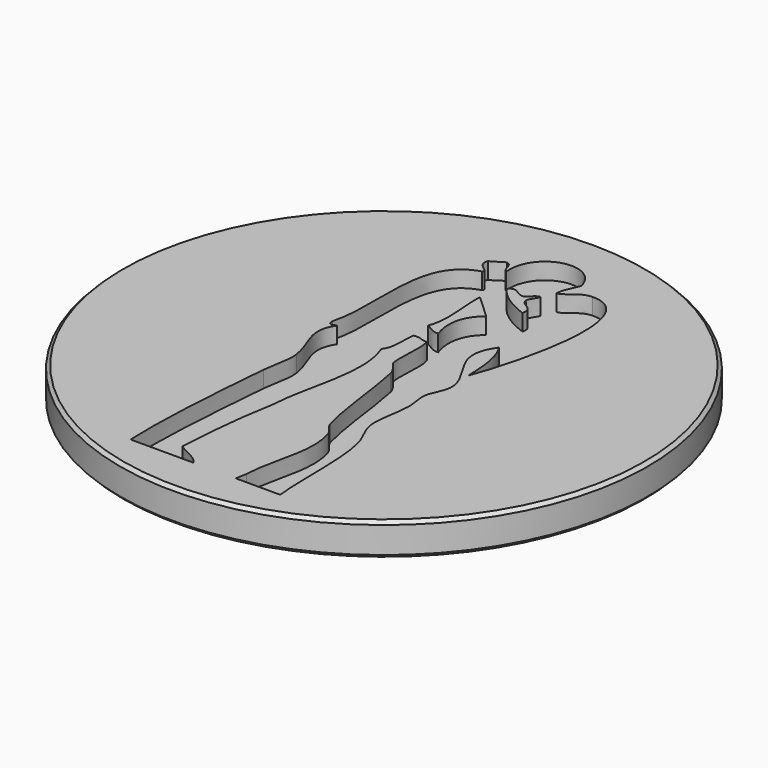
from build123d import *

# Parameters (mm, degrees)
POCKET_DEPTH = 1.25


with BuildPart() as part:
    # Sketch (on DatumPlane) → Revolution (revolve)
    with BuildSketch(Plane.YZ):
        Polygon((0, 0), (0, -2.5), (19.75, -2.5), (20, -2.25), (20, -0.25), (19.75, 0), align=None)
    revolve(axis=Axis((0, 0, 0), (0, 0, 1)))

    # Sketch005 (on DatumPlane) → Pocket (cut)
    with BuildSketch(Plane.XY):
        with BuildLine():
            add(Edge.make_bspline(
                [(2.212734, -16.79531), (2.353913, -15.955428)],
                knots=[0, 0, 11.60658, 11.60658], degree=1))
            add(Edge.make_bspline(
                [(2.353913, -15.955428), (2.452386, -13.484431), (3.666422, -11.326317), (2.913712, -8.958563)],
                knots=[0, 0, 0, 0, 1, 1, 1, 1], degree=3))
            add(Edge.make_bspline(
                [(2.913712, -8.958563), (2.776863, -8.528936), (2.33689, -8.25553), (2.213762, -7.839185)],
                knots=[0, 0, 0, 0, 1, 1, 1, 1], degree=3))
            add(Edge.make_bspline(
                [(2.213762, -7.839185), (1.63261, -5.878384), (1.420254, -2.638828), (0.954306, -0.562751)],
                knots=[0, 0, 0, 0, 1, 1, 1, 1], degree=3))
            add(Edge.make_bspline(
                [(0.954306, -0.562751), (0.837488, -0.042136), (0.287742, 0.418016), (0.254795, 0.556627)],
                knots=[0, 0, 0, 0, 1, 1, 1, 1], degree=3))
            add(Edge.make_bspline(
                [(0.254795, 0.556627), (0.035836, 1.475243), (0.405146, 2.931279), (0.114644, 3.915201)],
                knots=[0, 0, 0, 0, 1, 1, 1, 1], degree=3))
            add(Edge.make_bspline(
                [(0.114644, 3.915201), (-0.335749, 3.884236), (-0.477001, 4.162705), (-1.004588, 4.055279)],
                knots=[0, 0, 0, 0, 1, 1, 1, 1], degree=3))
            add(Edge.make_bspline(
                [(-1.004588, 4.055279), (-1.121992, 3.360832), (-0.906555, 2.162059), (-1.424455, 1.536367)],
                knots=[0, 0, 0, 0, 1, 1, 1, 1], degree=3))
            add(Edge.make_bspline(
                [(-1.424455, 1.536367), (-0.190168, -1.482321), (-1.911464, -5.34911), (-1.969652, -7.903684)],
                knots=[0, 0, 0, 0, 1, 1, 1, 1], degree=3))
            add(Edge.make_bspline(
                [(-1.969652, -7.903684), (-2.432446, -10.377469), (-2.703357, -13.113506), (-2.823623, -15.53644)],
                knots=[0, 0, 0, 0, 1, 1, 1, 1], degree=3))
            add(Edge.make_bspline(
                [(-2.823623, -15.53644), (-2.274023, -16.012809), (-1.385932, -16.150099), (-1.004588, -16.795897)],
                knots=[0, 0, 0, 0, 1, 1, 1, 1], degree=3))
            add(Edge.make_bspline(
                [(-1.004588, -16.795897), (-5.762036, -16.795897)],
                knots=[0, 0, 64.835, 64.835], degree=1))
            add(Edge.make_bspline(
                [(-5.762036, -16.795897), (-5.908571, -13.463225), (-5.538601, -8.73975), (-5.202677, -4.901359)],
                knots=[0, 0, 0, 0, 1, 1, 1, 1], degree=3))
            add(Edge.make_bspline(
                [(-5.202677, -4.901359), (-5.116898, -3.924994), (-4.784204, -3.058916), (-4.922814, -2.102804)],
                knots=[0, 0, 0, 0, 1, 1, 1, 1], degree=3))
            add(Edge.make_bspline(
                [(-4.922814, -2.102804), (-5.15799, -0.475138), (-6.392498, 0.658255), (-5.342242, 2.235731)],
                knots=[0, 0, 0, 0, 1, 1, 1, 1], degree=3))
            add(Edge.make_bspline(
                [(-5.342242, 2.235731), (-5.698637, 2.163087), (-5.885237, 1.997106), (-5.902261, 2.515373)],
                knots=[0, 0, 0, 0, 1, 1, 1, 1], degree=3))
            add(Edge.make_bspline(
                [(-5.902261, 2.515373), (-4.959136, 5.955324), (-6.879579, 11.869573), (-2.963554, 13.011331)],
                knots=[0, 0, 0, 0, 1, 1, 1, 1], degree=3))
            add(Edge.make_bspline(
                [(-2.963554, 13.011331), (-2.683178, 13.346374), (-3.817451, 13.457541), (-3.523427, 14.270347)],
                knots=[0, 0, 0, 0, 1, 1, 1, 1], degree=3))
            add(Edge.make_bspline(
                [(-3.523427, 14.270347), (-3.140321, 14.400739), (-2.926572, 14.699607), (-2.543613, 14.830292)],
                knots=[0, 0, 0, 0, 1, 1, 1, 1], degree=3))
            add(Edge.make_bspline(
                [(-2.543613, 14.830292), (-2.053816, 14.76051), (-2.204608, 14.0497), (-1.844029, 13.850773)],
                knots=[0, 0, 0, 0, 1, 1, 1, 1], degree=3))
            add(Edge.make_bspline(
                [(-1.844029, 13.850773), (-2.144071, 17.003889), (1.974624, 18.085918), (2.773854, 15.250087)],
                knots=[0, 0, 0, 0, 1, 1, 1, 1], degree=3))
            add(Edge.make_bspline(
                [(2.773854, 15.250087), (2.592685, 14.684491), (2.246708, 14.284215), (2.213762, 13.570469)],
                knots=[0, 0, 0, 0, 1, 1, 1, 1], degree=3))
            add(Edge.make_bspline(
                [(2.213762, 13.570469), (2.792786, 13.662925), (3.280014, 14.548962), (4.172728, 14.550283)],
                knots=[0, 0, 0, 0, 1, 1, 1, 1], degree=3))
            add(Edge.make_bspline(
                [(4.172728, 14.550283), (8.655083, 14.556593), (5.532639, 4.064598), (4.732674, 2.096606)],
                knots=[0, 0, 0, 0, 1, 1, 1, 1], degree=3))
            add(Edge.make_bspline(
                [(4.732674, 2.096606), (4.690702, 3.640108), (4.551504, 5.086751), (3.893159, 6.014246)],
                knots=[0, 0, 0, 0, 1, 1, 1, 1], degree=3))
            add(Edge.make_bspline(
                [(3.893159, 6.014246), (2.13422, 3.558659), (4.761805, 2.306173), (4.872605, 0.416989)],
                knots=[0, 0, 0, 0, 1, 1, 1, 1], degree=3))
            add(Edge.make_bspline(
                [(4.872605, 0.416989), (4.917146, -0.345406), (4.402694, -0.841587), (4.312953, -1.541977)],
                knots=[0, 0, 0, 0, 1, 1, 1, 1], degree=3))
            add(Edge.make_bspline(
                [(4.312953, -1.541977), (4.255498, -1.990169), (4.464992, -2.698558), (4.452811, -3.221668)],
                knots=[0, 0, 0, 0, 1, 1, 1, 1], degree=3))
            add(Edge.make_bspline(
                [(4.452811, -3.221668), (4.426028, -4.37979), (4.053783, -5.518319), (4.172802, -6.43943)],
                knots=[0, 0, 0, 0, 1, 1, 1, 1], degree=3))
            add(Edge.make_bspline(
                [(4.172802, -6.43943), (4.27487, -7.226994), (4.812289, -7.936631), (5.012317, -8.678994)],
                knots=[0, 0, 0, 0, 1, 1, 1, 1], degree=3))
            add(Edge.make_bspline(
                [(5.012317, -8.678994), (5.596477, -10.840703), (5.304801, -14.451403), (5.572409, -16.79531)],
                knots=[0, 0, 0, 0, 1, 1, 1, 1], degree=3))
            add(Edge.make_bspline(
                [(5.572409, -16.79531), (3.386852, -16.79531)],
                knots=[0, 0, 29.785, 29.785], degree=1))
            add(Edge.make_bspline(
                [(3.386852, -16.79531), (2.213542, -16.79531)],
                knots=[0, 0, 15.99, 15.99], degree=1))
            add(Edge.make_bspline(
                [(2.213542, -16.79531), (2.212734, -16.79531)],
                knots=[0, 0, 0.011, 0.011], degree=1))
        make_face()
        with BuildLine():
            add(Edge.make_bspline(
                [(0.814888, 12.031884), (0.306967, 12.149582), (-0.027122, 12.722883), (-0.444202, 12.172109)],
                knots=[0, 0, 0, 0, 1, 1, 1, 1], degree=3))
            add(Edge.make_bspline(
                [(-0.444202, 12.172109), (0.181271, 11.305297), (1.124615, 10.755404), (2.214129, 10.353001)],
                knots=[0, 0, 0, 0, 1, 1, 1, 1], degree=3))
            add(Edge.make_bspline(
                [(2.214129, 10.353001), (2.41379, 11.298327), (1.4408, 11.072396), (1.374613, 11.751948)],
                knots=[0, 0, 0, 0, 1, 1, 1, 1], degree=3))
            add(Edge.make_bspline(
                [(1.374613, 11.751948), (1.375934, 12.042671), (2.048515, 12.797141), (1.654256, 12.591903)],
                knots=[0, 0, 0, 0, 1, 1, 1, 1], degree=3))
            add(Edge.make_bspline(
                [(1.654256, 12.591903), (1.277828, 12.501942), (1.261465, 12.051476), (0.814888, 12.031884)],
                knots=[0, 0, 0, 0, 1, 1, 1, 1], degree=3))
        make_face(mode=Mode.SUBTRACT)
        with BuildLine():
            add(Edge.make_bspline(
                [(-1.144446, 5.595112), (-0.750334, 5.4758), (-0.569898, 5.143032), (-0.024554, 5.175244)],
                knots=[0, 0, 0, 0, 1, 1, 1, 1], degree=3))
            add(Edge.make_bspline(
                [(-0.024554, 5.175244), (-0.563587, 6.717205), (-0.133447, 7.929039), (0.814888, 8.67331)],
                knots=[0, 0, 0, 0, 1, 1, 1, 1], degree=3))
            add(Edge.make_bspline(
                [(0.814888, 8.67331), (0.225444, 9.250353), (-0.380877, 9.810005), (-1.004294, 10.352927)],
                knots=[0, 0, 0, 0, 1, 1, 1, 1], degree=3))
            add(Edge.make_bspline(
                [(-1.004294, 10.352927), (-1.116636, 8.904083), (-0.572319, 7.017394), (-1.144446, 5.595112)],
                knots=[0, 0, 0, 0, 1, 1, 1, 1], degree=3))
        make_face(mode=Mode.SUBTRACT)
    extrude(amount=-POCKET_DEPTH, mode=Mode.SUBTRACT)


solid = part.part
